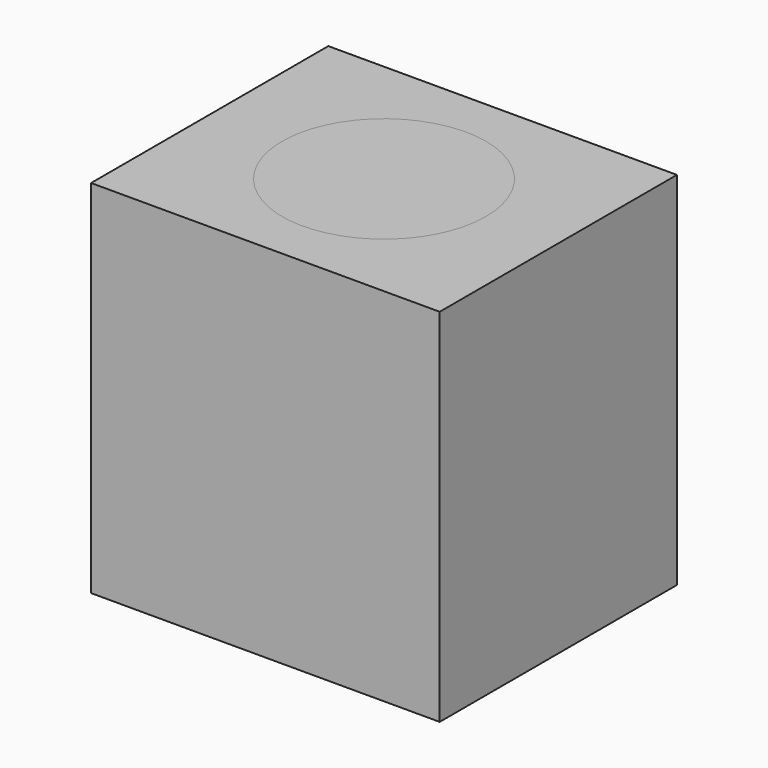
from build123d import *

# Parameters (mm, degrees)
F1_R     = 31.0194667636
F2_DEPTH = 109.893143177
F0_W     = 106.1072945595
F0_H     = 90.2478247881
F0_R     = 31.0194667636


with BuildPart() as f2:
    # F1 (on face) → F2 (new body)
    with BuildSketch(Plane.XY):
        Circle(F1_R)
    extrude(amount=F2_DEPTH)


with BuildPart() as f2b:
    # F0 (on Top) → F2, piece 2 (new body)
    with BuildSketch(Plane.XY):
        Rectangle(F0_W, F0_H)
        Circle(F0_R, mode=Mode.SUBTRACT)
    extrude(amount=F2_DEPTH)


solid = Compound([f2.part, f2b.part])
